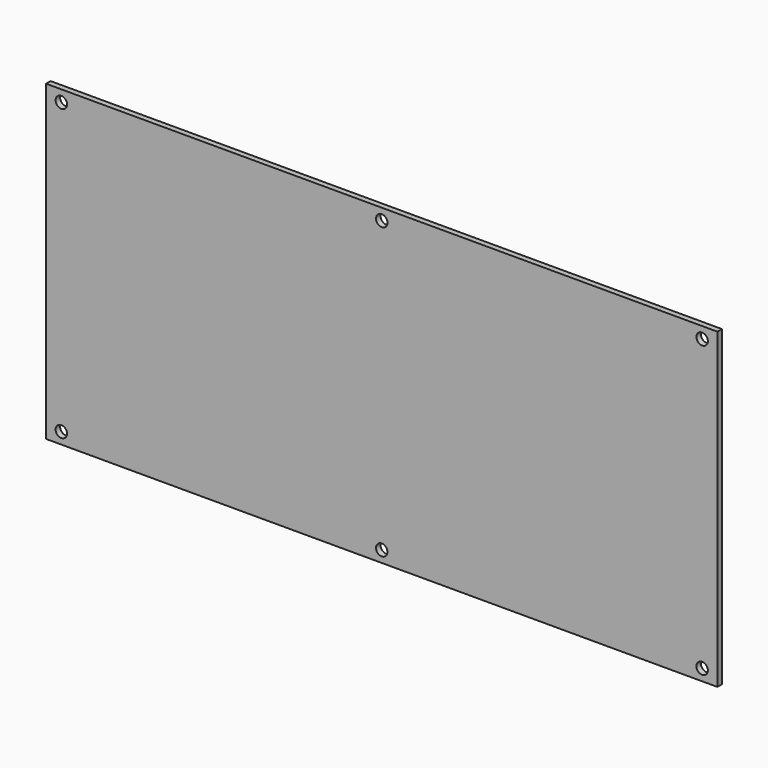
from build123d import *

# Parameters (mm, degrees)
F0_W     = 558.8
F0_H     = 260.35
F0_R     = 4.7625
F1_DEPTH = 4.699


with BuildPart() as f1:
    # F0 (on Front) → F1 (new body)
    with BuildSketch(Plane.XZ):
        Rectangle(F0_W, F0_H)
        with Locations((-266.7, -120.65)):
            Circle(F0_R, mode=Mode.SUBTRACT)
        with Locations((0, -120.65)):
            Circle(F0_R, mode=Mode.SUBTRACT)
        with Locations((266.7, -120.65)):
            Circle(F0_R, mode=Mode.SUBTRACT)
        with Locations((-266.7, 120.65)):
            Circle(F0_R, mode=Mode.SUBTRACT)
        with Locations((0, 120.65)):
            Circle(F0_R, mode=Mode.SUBTRACT)
        with Locations((266.7, 120.65)):
            Circle(F0_R, mode=Mode.SUBTRACT)
    extrude(amount=F1_DEPTH)


solid = f1.part
